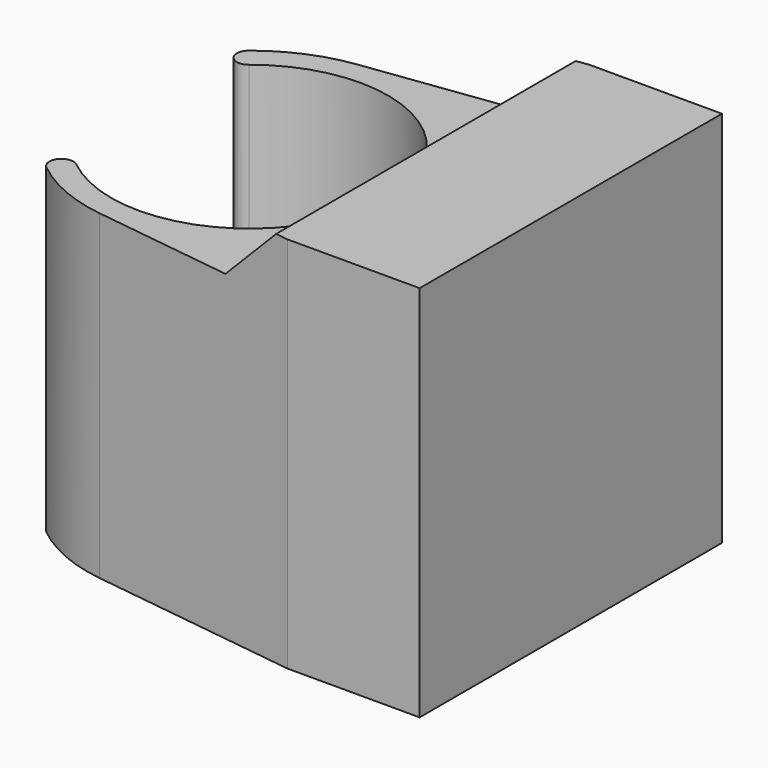
from build123d import *

# Parameters (mm, degrees)
F1_DEPTH = 30
F3_DEPTH = 40


with BuildPart() as f1:
    # F0 (on Top) → F1 (new body)
    with BuildSketch(Plane.XY):
        with BuildLine():
            Line((-16.694256, 2.211744), (0, 0))
            Line((0, 0), (10.5, 0))
            Line((10.5, 0), (10.5, 30))
            Line((10.5, 30), (0, 30))
            Line((0, 30), (-16.694256, 27.788256))
            ThreePointArc((-16.694256, 27.788256), (-20.084053, 26.855902), (-23.096234, 25.042957))
            ThreePointArc((-23.096234, 25.042957), (-23.239598, 23.707125), (-21.903766, 23.563762))
            ThreePointArc((-21.903766, 23.563762), (-10.253497, 24.923241), (-4, 15))
            ThreePointArc((-4, 15), (-10.253497, 5.076759), (-21.903766, 6.436238))
            ThreePointArc((-21.903766, 6.436238), (-23.239598, 6.292875), (-23.096234, 4.957043))
            ThreePointArc((-23.096234, 4.957043), (-20.084053, 3.144098), (-16.694256, 2.211744))
        make_face()
    extrude(amount=F1_DEPTH)

    # F2 (on face) → F3 (cut)
    with BuildSketch(Plane.XZ):
        Polygon((0, 35.99402), (-26.560755, 35.99402), (-26.560755, 25.5), (-5.5, 25.5), (-1, 30), (0, 30), align=None)
    extrude(amount=-F3_DEPTH, mode=Mode.SUBTRACT)


solid = f1.part
